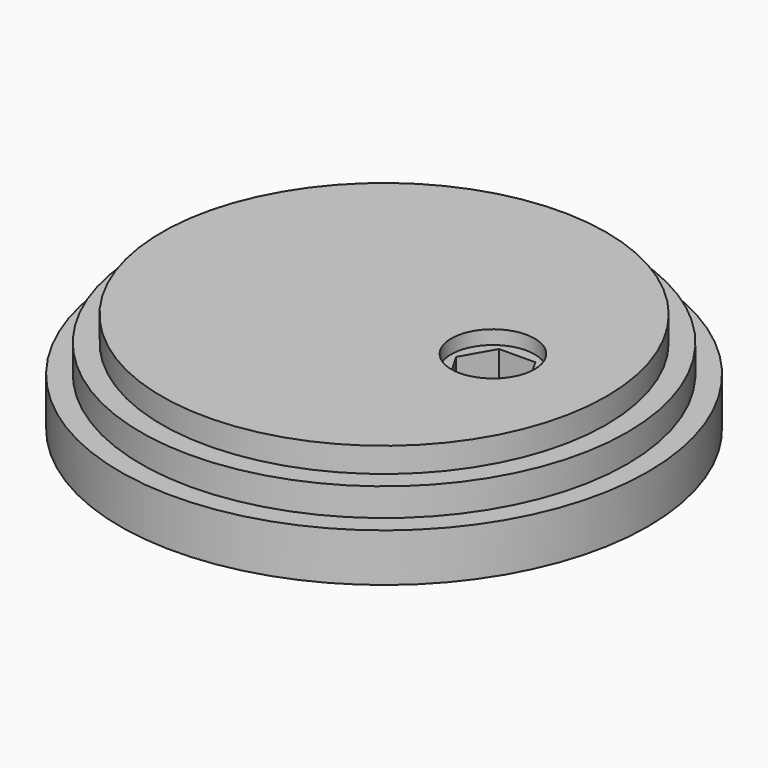
from build123d import *

# Parameters (mm, degrees)
F0_W     = 16
F0_H     = 1.2547565785
F3_R     = 1.725
F4_DEPTH = 7.3
F5_DEPTH = 3.5
F3_R_2   = 3
F6_DEPTH = 1


with BuildPart() as f1:
    # F0 (on Front) → F1 (revolve)
    with BuildSketch(Plane.XZ):
        Polygon((-7.7905750729, 7.2604851217), (-7.7905750729, 0), (8.2094249271, 0), (11.2094249271, 0), (11.2094249271, 3.4629283439), (9.7094249271, 3.4629283439), (9.7094249271, 5.4733994966), (8.2094249271, 5.4733994966), (8.2094249271, 7.2604851217), align=None)
        with Locations((0.2094249271, -0.6273782892)):
            Rectangle(F0_W, F0_H)
    revolve(axis=Axis((-7.7905750729, 0, 2.7390308408), (0, 0, 1)))

    # F3 (on offset) → F4 (cut)
    with BuildSketch(Plane.XY.offset(7.2604851217)):
        with Locations((-0.0100255911, 0.0691023806)):
            Circle(F3_R)
    extrude(amount=-F4_DEPTH, mode=Mode.SUBTRACT)

    # F3 (on offset) → F5 (cut)
    with BuildSketch(Plane.XY.offset(7.2604851217)):
        Polygon((-1.3136138991, 2.2415214753), (-2.5980214903, -0.0168622697), (-1.2844075912, -2.258383745), (1.3136138991, -2.2415214753), (2.5980214903, 0.0168622697), (1.2844075912, 2.258383745), align=None)
        with Locations((-0.0100255911, 0.0691023806)):
            Circle(F3_R, mode=Mode.SUBTRACT)
    extrude(amount=-F5_DEPTH, mode=Mode.SUBTRACT)

    # F3 (on offset) → F6 (cut)
    with BuildSketch(Plane.XY.offset(7.2604851217)):
        with Locations((-0.0100255911, 0.0691023806)):
            Circle(F3_R_2)
        Polygon((-1.2844075912, -2.258383745), (-2.5980214903, -0.0168622697), (-1.3136138991, 2.2415214753), (1.2844075912, 2.258383745), (2.5980214903, 0.0168622697), (1.3136138991, -2.2415214753), align=None, mode=Mode.SUBTRACT)
    extrude(amount=-F6_DEPTH, mode=Mode.SUBTRACT)


solid = f1.part
